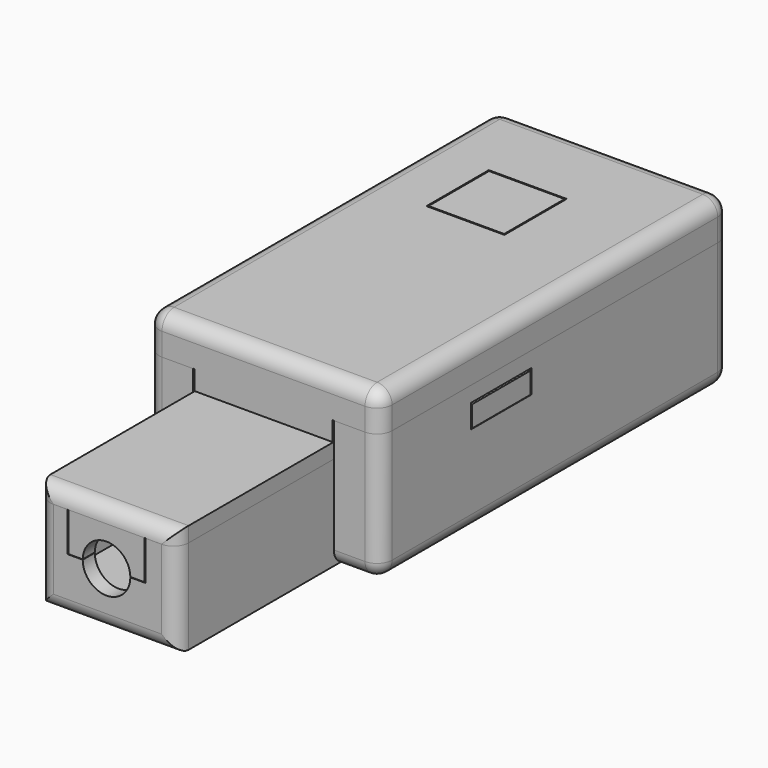
from build123d import *

# Parameters (mm, degrees)
SKETCH_W        = 25.527
SKETCH_H        = 45.1
PAD_DEPTH       = 1
SKETCH001_W     = 3.5
SKETCH001_H     = 2.8
PAD001_DEPTH    = 1.75
SKETCH002_W     = 7.5
SKETCH002_H     = 5.75
PAD002_DEPTH    = 2.4
SKETCH003_W     = 2.54
SKETCH003_H     = 17.78
PAD003_DEPTH    = 9.4
SKETCH004_W     = 25.527
SKETCH004_H     = 17.78
PAD004_DEPTH    = 1.6
SKETCH005_W     = 10
SKETCH005_H     = 10
PAD005_DEPTH    = 5
SKETCH028_W     = 5.3
SKETCH028_H     = 12.4
PAD018_DEPTH    = 3.8
SKETCH006_W     = 30.827
SKETCH006_H     = 57.8
PAD006_DEPTH    = 17.05
POCKET_DEPTH    = 15.05
SKETCH009_W     = 2
SKETCH009_H     = 10
POCKET002_DEPTH = 3.1
SKETCH010_W     = 6.38175
SKETCH010_H     = 12.925
SKETCH010_W_2   = 28.827
SKETCH010_H_2   = 6
POCKET003_DEPTH = 2.5
SKETCH016_W     = 18.6
SKETCH016_H     = 6
POCKET006_DEPTH = 5.051
SKETCH019_W     = 25.527
SKETCH019_H     = 2.5
SKETCH019_W_2   = 12
SKETCH019_H_2   = 1
PAD012_DEPTH    = 3
FILLET_R        = 1.99
SKETCH011_W     = 30.827
SKETCH011_H     = 57.8
PAD007_DEPTH    = 5
SKETCH012_W     = 10.3
SKETCH012_H     = 10.3
POCKET004_DEPTH = 5.001
SKETCH013_W     = 26.827
SKETCH013_H     = 53.8
POCKET005_DEPTH = 3.001
SKETCH014_W     = 28.527
SKETCH014_H     = 5.7
PAD008_DEPTH    = 2.55
SKETCH015_W     = 18.3
SKETCH015_H     = 2
PAD009_DEPTH    = 2.55
SKETCH017_W     = 14
SKETCH017_H     = 9.85
SKETCH017_W_2   = 10
SKETCH017_H_2   = 3.35
PAD010_DEPTH    = 26.827
SKETCH020_W     = 3.5
SKETCH020_H     = 2.8
POCKET007_DEPTH = 11.801
FILLET007_R     = 1.99
SKETCH022_W     = 18.3
SKETCH022_H     = 31.65
PAD014_DEPTH    = 3.75
PAD015_DEPTH    = 8.7
SKETCH024_W     = 16.3
SKETCH024_H     = 30.65
POCKET008_DEPTH = 2.55
SKETCH034_W     = 10.3
SKETCH034_H     = 2
POCKET011_DEPTH = 5.2
SKETCH035_R     = 3.15
POCKET012_DEPTH = 2
FILLET005_R     = 1.99
PAD016_DEPTH    = 2
PAD017_DEPTH    = 2.5
SKETCH031_W     = 10.3
SKETCH031_H     = 15.65
PAD021_DEPTH    = 1.7
SKETCH036_W     = 10
SKETCH036_H     = 2
PAD022_DEPTH    = 5.15
SKETCH037_R     = 3.15
POCKET013_DEPTH = 2
FILLET006_R     = 1.99
SKETCH029_W     = 30.827
SKETCH029_H     = 9.7
PAD019_DEPTH    = 2.8
SKETCH030_W     = 26.527
SKETCH030_H     = 9.7
PAD020_DEPTH    = 0.2


with BuildPart() as board:
    # Sketch → Pad (new body)
    with BuildSketch(Plane.XY):
        with Locations((12.7635, 22.55)):
            Rectangle(SKETCH_W, SKETCH_H)
    extrude(amount=PAD_DEPTH)

    # Sketch001 → Pad001 (join)
    with BuildSketch(Plane.XY.offset(1)):
        with Locations((23.36, 42.054)):
            Rectangle(SKETCH001_W, SKETCH001_H)
    extrude(amount=PAD001_DEPTH)

    # Sketch002 → Pad002 (join)
    with BuildSketch(Plane.XY.offset(1)):
        with Locations((12.64, 0.999)):
            Rectangle(SKETCH002_W, SKETCH002_H)
    extrude(amount=PAD002_DEPTH)

    # Sketch003 → Pad003 (join)
    with BuildSketch(Plane.XY.offset(1)):
        with Locations((1.27, 29.21)):
            Rectangle(SKETCH003_W, SKETCH003_H)
        with Locations((24.257, 29.21)):
            Rectangle(SKETCH003_W, SKETCH003_H)
    extrude(amount=PAD003_DEPTH)

    # Sketch004 → Pad004 (join)
    with BuildSketch(Plane.XY.offset(10.4)):
        with Locations((12.7635, 29.21)):
            Rectangle(SKETCH004_W, SKETCH004_H)
    extrude(amount=PAD004_DEPTH)

    # Sketch005 → Pad005 (join)
    with BuildSketch(Plane.XY.offset(12)):
        with Locations((10.715, 31.035)):
            Rectangle(SKETCH005_W, SKETCH005_H)
    extrude(amount=PAD005_DEPTH)

    # Sketch028 → Pad018 (join)
    with BuildSketch(Plane.XY.offset(1)):
        with Locations((19.257, 12.149)):
            Rectangle(SKETCH028_W, SKETCH028_H)
    extrude(amount=PAD018_DEPTH)


with BuildPart() as obj1:
    # Sketch006 → Pad006 (new body)
    with BuildSketch(Plane.XY.offset(-5.05)):
        with Locations((12.7635, 18.85)):
            Rectangle(SKETCH006_W, SKETCH006_H)
    extrude(amount=PAD006_DEPTH)

    # Sketch007 → Pocket (cut)
    with BuildSketch(Plane.XY.offset(12)):
        Polygon((26.177, -4.05), (26.177, 45.75), (-0.65, 45.75), (-0.65, -4.05), (3.4635, -4.05), (3.4635, -5.9), (-0.65, -5.9), (-0.65, -8.2), (3.4635, -8.2), (3.4635, -10.05), (22.0635, -10.05), (22.0635, -8.2), (26.177, -8.2), (26.177, -5.9), (22.0635, -5.9), (22.0635, -4.05), align=None)
    extrude(amount=-POCKET_DEPTH, mode=Mode.SUBTRACT)

    # Sketch009 → Pocket002 (cut)
    with BuildSketch(Plane.XY.offset(9.95)):
        with Locations((-1.65, 10)):
            Rectangle(SKETCH009_W, SKETCH009_H)
        with Locations((27.177, 10)):
            Rectangle(SKETCH009_W, SKETCH009_H)
    extrude(amount=-POCKET002_DEPTH, mode=Mode.SUBTRACT)

    # Sketch010 → Pocket003 (cut)
    with BuildSketch(Plane.XY.offset(12)):
        with Locations((1.540875, 40.2875)):
            Rectangle(SKETCH010_W, SKETCH010_H)
        with Locations((12.7635, -6.05)):
            Rectangle(SKETCH010_W_2, SKETCH010_H_2)
        with Locations((23.986125, 40.2875)):
            Rectangle(SKETCH010_W, SKETCH010_H)
    extrude(amount=-POCKET003_DEPTH, mode=Mode.SUBTRACT)

    # Sketch016 → Pocket006 (cut, through all)
    with BuildSketch(Plane.XY):
        with Locations((12.7635, -7.05)):
            Rectangle(SKETCH016_W, SKETCH016_H)
    extrude(amount=-POCKET006_DEPTH, mode=Mode.SUBTRACT)

    # Sketch019 → Pad012 (join)
    with BuildSketch(Plane.XY.offset(-3.05)):
        with Locations((12.7635, 1.25)):
            Rectangle(SKETCH019_W, SKETCH019_H)
        with Locations((13, 37.5)):
            Rectangle(SKETCH019_W_2, SKETCH019_H_2)
    extrude(amount=PAD012_DEPTH)

    # Fillet
    fillet_edges = [obj1.edges().sort_by_distance(p)[0] for p in [
        (12.7635, 0, -3.05),
        (12.7635, 2.5, -3.05),
        (13, 37, -3.05),
        (13, 38, -3.05),
        (12.7635, 47.75, -5.05),
        (-2.65, 47.75, 3.475),
        (-2.65, 18.85, -5.05),
        (-2.65, -10.05, 3.475),
        (28.177, 47.75, 3.475),
        (28.177, 18.85, -5.05),
        (28.177, -10.05, 3.475),
        (0.40675, -10.05, -5.05),
        (25.12025, -10.05, -5.05),
    ]]
    fillet(fillet_edges, radius=FILLET_R)


with BuildPart() as obj2:
    # Sketch011 → Pad007 (new body)
    with BuildSketch(Plane.XY.offset(12)):
        with Locations((12.7635, 18.85)):
            Rectangle(SKETCH011_W, SKETCH011_H)
    extrude(amount=PAD007_DEPTH)

    # Sketch012 → Pocket004 (cut, through all)
    with BuildSketch(Plane.XY.offset(17)):
        with Locations((10.715, 31.035)):
            Rectangle(SKETCH012_W, SKETCH012_H)
    extrude(amount=-POCKET004_DEPTH, mode=Mode.SUBTRACT)

    # Sketch013 → Pocket005 (cut, through all)
    with BuildSketch(Plane.XY.offset(15)):
        with Locations((12.7635, 18.85)):
            Rectangle(SKETCH013_W, SKETCH013_H)
    extrude(amount=-POCKET005_DEPTH, mode=Mode.SUBTRACT)

    # Sketch014 → Pad008 (join)
    with BuildSketch(Plane.XY.offset(12)):
        Polygon((-1.5, 33.975), (-0.65, 33.975), (-0.65, 45.75), (4.58175, 45.75), (4.58175, 46.6), (-1.5, 46.6), align=None)
        Polygon((20.94525, 46.6), (27.027, 46.6), (27.027, 33.975), (26.177, 33.975), (26.177, 45.75), (20.94525, 45.75), align=None)
        with Locations((12.7635, -6.05)):
            Rectangle(SKETCH014_W, SKETCH014_H)
    extrude(amount=-PAD008_DEPTH)

    # Sketch015 → Pad009 (join)
    with BuildSketch(Plane.XY.offset(9.45)):
        with Locations((12.7635, -9.05)):
            Rectangle(SKETCH015_W, SKETCH015_H)
    extrude(amount=PAD009_DEPTH)

    # Sketch017 → Pad010 (join)
    with BuildSketch(Plane.YZ.offset(-0.65)):
        with Locations((10, 10.075)):
            Rectangle(SKETCH017_W, SKETCH017_H)
        with Locations((10, 8.525)):
            Rectangle(SKETCH017_W_2, SKETCH017_H_2, mode=Mode.SUBTRACT)
    extrude(amount=PAD010_DEPTH)

    # Sketch020 → Pocket007 (cut, through all)
    with BuildSketch(Plane.XY.offset(16.95)):
        with Locations((23.36, 42.054)):
            Rectangle(SKETCH020_W, SKETCH020_H)
    extrude(amount=-POCKET007_DEPTH, mode=Mode.SUBTRACT)

    # Fillet007
    fillet007_edges = [obj2.edges().sort_by_distance(p)[0] for p in [
        (12.7635, 3, 5.15),
        (12.7635, 17, 5.15),
        (-2.65, 18.85, 17),
        (-2.65, -10.05, 14.5),
        (12.7635, -10.05, 17),
        (12.7635, 47.75, 17),
        (28.177, -10.05, 14.5),
        (28.177, 18.85, 17),
        (28.177, 47.75, 14.5),
        (-2.65, 47.75, 14.5),
    ]]
    fillet(fillet007_edges, radius=FILLET007_R)


with BuildPart() as obj3:
    # Sketch022 → Pad014 (new body)
    with BuildSketch(Plane.XY.offset(-5.05)):
        with Locations((12.7635, -20.025)):
            Rectangle(SKETCH022_W, SKETCH022_H)
    extrude(amount=PAD014_DEPTH)

    # Sketch023 → Pad015 (join)
    with BuildSketch(Plane.XY.offset(-1.3)):
        Polygon((3.6135, -4.2), (3.6135, -6.05), (-0.5, -6.05), (-0.5, -8.05), (3.6135, -8.05), (3.6135, -35.85), (21.9135, -35.85), (21.9135, -8.05), (26.027, -8.05), (26.027, -6.05), (21.9135, -6.05), (21.9135, -4.2), (19.9135, -4.2), (19.9135, -33.85), (5.6135, -33.85), (5.6135, -4.2), align=None)
    extrude(amount=PAD015_DEPTH)

    # Sketch024 → Pocket008 (cut)
    with BuildSketch(Plane.XY.offset(7.4)):
        with Locations((12.7635, -19.525)):
            Rectangle(SKETCH024_W, SKETCH024_H)
    extrude(amount=-POCKET008_DEPTH, mode=Mode.SUBTRACT)

    # Sketch034 → Pocket011 (cut)
    with BuildSketch(Plane.XY.offset(7.4)):
        with Locations((12.64, -34.85)):
            Rectangle(SKETCH034_W, SKETCH034_H)
    extrude(amount=-POCKET011_DEPTH, mode=Mode.SUBTRACT)

    # Sketch035 → Pocket012 (cut)
    with BuildSketch(Plane.XZ.offset(35.85)):
        with Locations((12.64, 2.2)):
            Circle(SKETCH035_R)
    extrude(amount=-POCKET012_DEPTH, mode=Mode.SUBTRACT)

    # Fillet005
    fillet005_edges = [obj3.edges().sort_by_distance(p)[0] for p in [
        (3.6135, -35.85, 1.175),
        (12.7635, -35.85, -5.05),
        (21.9135, -35.85, 1.175),
    ]]
    fillet(fillet005_edges, radius=FILLET005_R)


with BuildPart() as obj4:
    # Sketch026 → Pad016 (new body)
    with BuildSketch(Plane.XY.offset(7.4)):
        Polygon((3.6135, -4.2), (3.6135, -6.05), (-0.5, -6.05), (-0.5, -8.05), (3.6135, -8.05), (3.6135, -35.85), (21.9135, -35.85), (21.9135, -8.05), (26.027, -8.05), (26.027, -6.05), (21.9135, -6.05), (21.9135, -4.2), align=None)
    extrude(amount=PAD016_DEPTH)

    # Sketch027 → Pad017 (join)
    with BuildSketch(Plane.XY.offset(4.9)):
        Polygon((4.7635, -4.2), (4.7635, -34.7), (20.7635, -34.7), (20.7635, -4.2), (19.9135, -4.2), (19.9135, -33.85), (5.6135, -33.85), (5.6135, -4.2), align=None)
    extrude(amount=PAD017_DEPTH)

    # Sketch031 → Pad021 (join)
    with BuildSketch(Plane.XY.offset(5.7)):
        with Locations((12.7635, -18.025)):
            Rectangle(SKETCH031_W, SKETCH031_H)
    extrude(amount=PAD021_DEPTH)

    # Sketch036 → Pad022 (join)
    with BuildSketch(Plane.XY.offset(7.4)):
        with Locations((12.64, -34.85)):
            Rectangle(SKETCH036_W, SKETCH036_H)
    extrude(amount=-PAD022_DEPTH)

    # Sketch037 → Pocket013 (cut)
    with BuildSketch(Plane.XZ.offset(35.85)):
        with Locations((12.64, 2.2)):
            Circle(SKETCH037_R)
    extrude(amount=-POCKET013_DEPTH, mode=Mode.SUBTRACT)

    # Fillet006
    fillet006_edges = [obj4.edges().sort_by_distance(p)[0] for p in [
        (12.7635, -35.85, 9.4),
        (3.6135, -35.85, 8.4),
        (21.9135, -35.85, 8.4),
    ]]
    fillet(fillet006_edges, radius=FILLET006_R)


with BuildPart() as bolt:
    # Sketch029 → Pad019 (new body)
    with BuildSketch(Plane.XY.offset(6.9)):
        with Locations((12.7635, 10)):
            Rectangle(SKETCH029_W, SKETCH029_H)
    extrude(amount=PAD019_DEPTH)

    # Sketch030 → Pad020 (join)
    with BuildSketch(Plane.XY.offset(9.7)):
        with Locations((12.7635, 10)):
            Rectangle(SKETCH030_W, SKETCH030_H)
    extrude(amount=PAD020_DEPTH)


solid = Compound([board.part, obj1.part, obj2.part, obj3.part, obj4.part, bolt.part])
